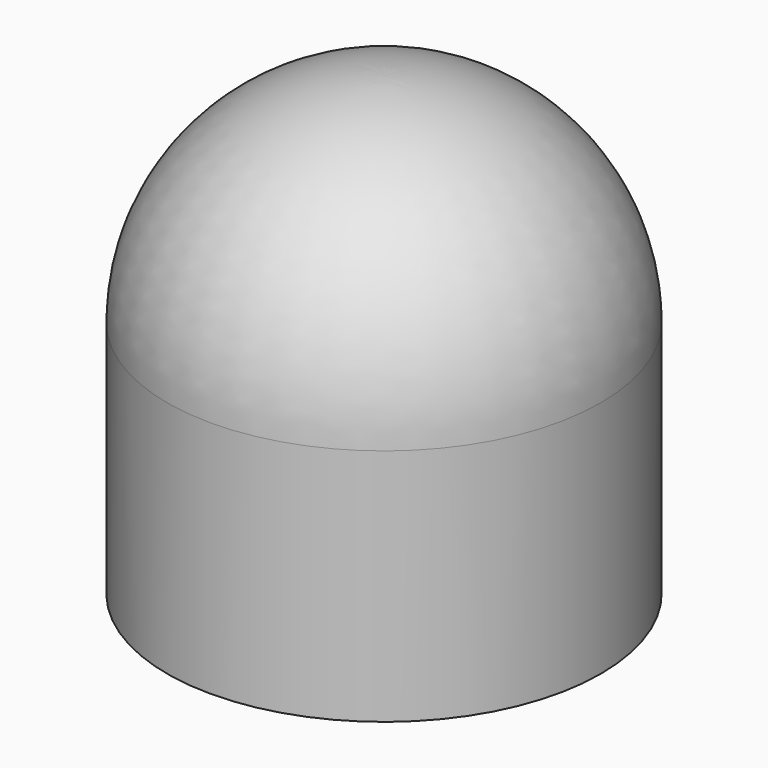
from build123d import *


with BuildPart() as f1:
    # F0 (on Front) → F1 (revolve)
    with BuildSketch(Plane.XZ):
        with BuildLine():
            Line((78.706287, -86.217486), (82.706287, -86.217486))
            Line((82.706287, -86.217486), (82.706287, 4.775056))
            ThreePointArc((82.706287, 4.775056), (58.454755, 63.098456), (0, 87.031642))
            Line((0, 87.031642), (0, 83.031642))
            ThreePointArc((0, 83.031642), (55.586125, 60.691523), (78.706287, 5.425293))
            Line((78.706287, 5.425293), (78.706287, -86.217486))
        make_face()
    revolve(axis=Axis((0, 0, 85.031642), (0, 0, 1)))


solid = f1.part
